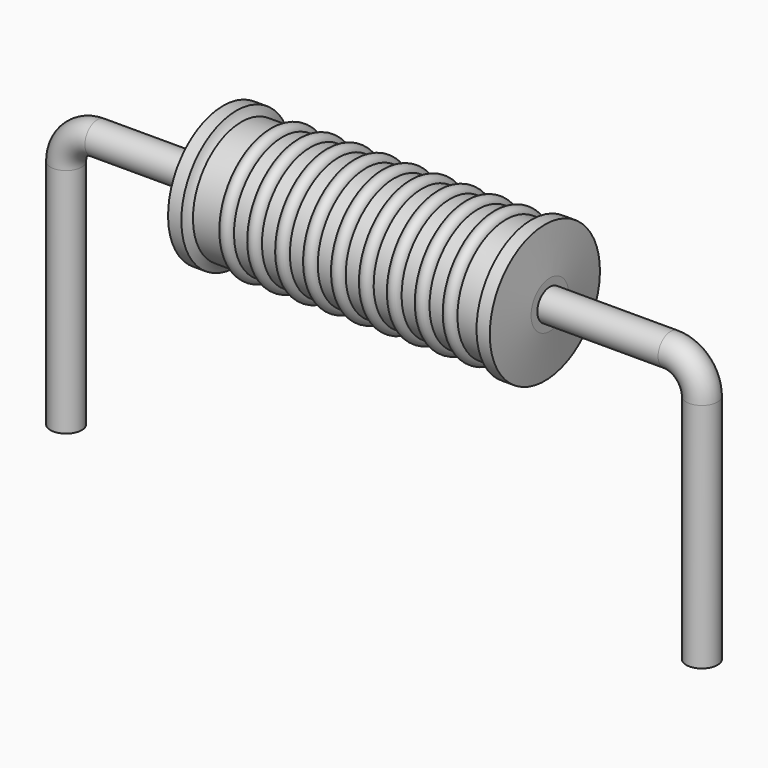
from build123d import *

# Parameters (mm, degrees)
SKETCH_R = 0.25


with BuildPart() as sweep_body:
    # Sweep: sweep along a path in Sketch001
    with BuildLine(Plane.XZ) as sweep_path:
        Line((0, -3), (0, 0.7))
        ThreePointArc((0, 0.7), (0.146445, 1.053551), (0.499994, 1.2))
        Line((0.499994, 1.2), (9.66, 1.2))
        ThreePointArc((9.66, 1.2), (10.013553, 1.053553), (10.16, 0.7))
        Line((10.16, 0.7), (10.16, -3))
    # Sketch → Sweep (sweep)
    with BuildSketch(Plane.XY.offset(-2)):
        Circle(SKETCH_R)
    sweep(path=sweep_path.line)


with BuildPart() as revolution:
    # Sketch002 → Revolution (revolve)
    with BuildSketch(Plane.XZ):
        with BuildLine():
            Line((2.5095, 2.3), (2.7215, 2.3))
            ThreePointArc((2.7215, 2.3), (2.754132, 2.229479), (2.801, 2.1675))
            Line((2.801, 2.1675), (7.359, 2.1675))
            ThreePointArc((7.359, 2.1675), (7.405868, 2.229479), (7.4385, 2.3))
            Line((7.4385, 2.3), (7.6505, 2.3))
            ThreePointArc((7.73, 1.575), (7.690562, 1.937534), (7.6505, 2.3))
            Line((7.73, 1.2), (7.73, 1.575))
            Line((2.43, 1.2), (7.73, 1.2))
            Line((2.43, 1.2), (2.43, 1.575))
            ThreePointArc((2.5095, 2.3), (2.469438, 1.937534), (2.43, 1.575))
        make_face()
    revolve(axis=Axis((2.43, 0, 1.2), (1, 0, 0)))


with BuildPart() as obj1:
    # Sketch003 → Revolution001 (revolve)
    with BuildSketch(Plane.XZ):
        with BuildLine():
            ThreePointArc((3.459316, 2.1463), (3.347737, 2.257879), (3.236158, 2.1463))
            Line((3.013, 2.1463), (3.236158, 2.1463))
            Line((3.013, 2.1463), (3.013, 1.9263))
            Line((3.013, 1.9263), (7.253, 1.9263))
            Line((7.253, 1.9263), (7.253, 2.1463))
            Line((7.029842, 2.1463), (7.253, 2.1463))
            ThreePointArc((7.029842, 2.1463), (6.918263, 2.257879), (6.806684, 2.1463))
            Line((6.583526, 2.1463), (6.806684, 2.1463))
            ThreePointArc((6.583526, 2.1463), (6.471947, 2.257879), (6.360368, 2.1463))
            Line((6.137211, 2.1463), (6.360368, 2.1463))
            ThreePointArc((6.137211, 2.1463), (6.025632, 2.257879), (5.914053, 2.1463))
            Line((5.690895, 2.1463), (5.914053, 2.1463))
            ThreePointArc((5.690895, 2.1463), (5.579316, 2.257879), (5.467737, 2.1463))
            Line((5.244579, 2.1463), (5.467737, 2.1463))
            ThreePointArc((5.244579, 2.1463), (5.133, 2.257879), (5.021421, 2.1463))
            Line((4.798263, 2.1463), (5.021421, 2.1463))
            ThreePointArc((4.798263, 2.1463), (4.686684, 2.257879), (4.575105, 2.1463))
            Line((4.351947, 2.1463), (4.575105, 2.1463))
            ThreePointArc((4.351947, 2.1463), (4.240368, 2.257879), (4.128789, 2.1463))
            Line((3.905632, 2.1463), (4.128789, 2.1463))
            ThreePointArc((3.905632, 2.1463), (3.794053, 2.257879), (3.682474, 2.1463))
            Line((3.459316, 2.1463), (3.682474, 2.1463))
        make_face()
    revolve(axis=Axis((2.5625, 0, 1.2), (1, 0, 0)))

    # obj1: union Sweep body, Revolution
    add(sweep_body.part)
    add(revolution.part)


solid = obj1.part
